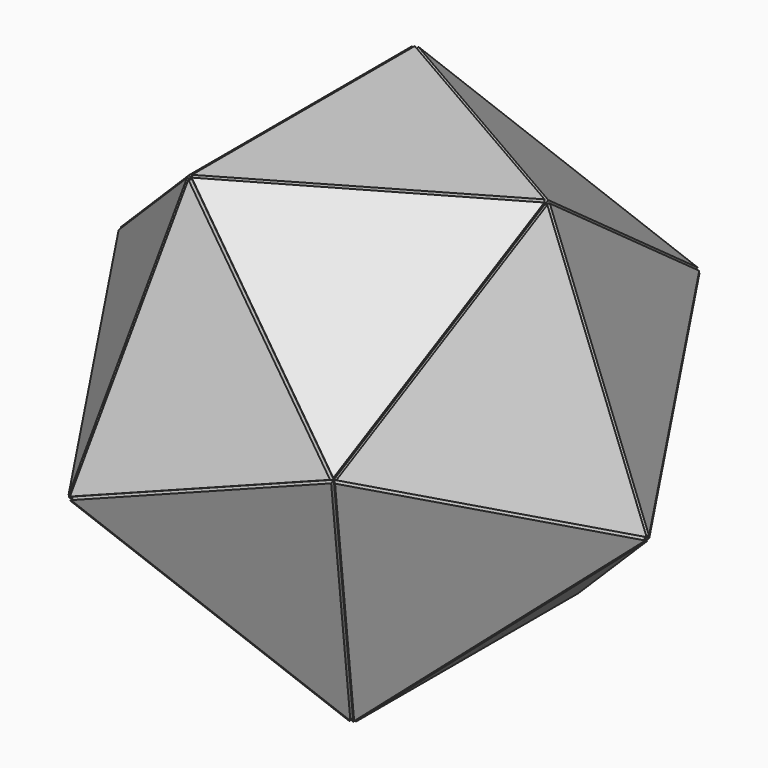
from build123d import *

# Parameters (mm, degrees)
F1_DEPTH  = 3
F4_ANGLE  = 138.2
F7_ANGLE  = 138.2
F10_ANGLE = 138.2
F14_ANGLE = -138.2
F16_ANGLE = 138.2
F19_ANGLE = 138.2
F21_COUNT = 3
F22_COUNT = 3
F23_COUNT = 3
F26_ANGLE = -138.2
F27_COUNT = 3
F30_ANGLE = 138.2
F31_COUNT = 3
F34_ANGLE = -138.2
F35_COUNT = 3
F39_ANGLE = -138.2


with BuildPart() as f1:
    # F0 (on Top) → F1 (new body)
    with BuildSketch(Plane.XY):
        Polygon((28.8675134595, -50), (28.8675134595, 50), (-57.735026919, 0), align=None)
    extrude(amount=F1_DEPTH)


with BuildPart() as f2_1:
    # F2: copy of F1
    add(f1.part)


with BuildPart() as f2_1_1:
    # F4: moved
    add(f2_1.part.rotate(Axis((-14.4337567297, -25, 1.5), (0.8660254038, -0.5, 0)), F4_ANGLE))


with BuildPart() as f5_1:
    # F5: copy of F1
    add(f1.part)


with BuildPart() as f5_1_1:
    # F7: moved
    add(f5_1.part.rotate(Axis((28.8675134595, 0, 1.5), (0, 1, 0)), F7_ANGLE))


with BuildPart() as f8_1:
    # F8: copy of F1
    add(f1.part)


with BuildPart() as f8_1_1:
    # F10: moved
    add(f8_1.part.rotate(Axis((-14.4337567297, 25, 1.5), (-0.8660254038, -0.5, 0)), F10_ANGLE))


with BuildPart() as f13_1:
    # F13: copy of F2_1
    add(f2_1_1.part)


with BuildPart() as f13_1_1:
    # F14: moved
    add(f13_1.part.rotate(Axis((-52.2244206653, -40.4553499881, 30.3617025842), (-0.1102121251, 0.8091069998, -0.5772340517)), F14_ANGLE))


with BuildPart() as f15_1:
    # F15: copy of F8_1
    add(f8_1_1.part)


with BuildPart() as f15_1_1:
    # F16: moved
    add(f15_1.part.rotate(Axis((-52.2244206653, 40.4553499881, 30.3617025842), (-0.1102121251, -0.8091069998, -0.5772340517)), F16_ANGLE))


with BuildPart() as f18_1:
    # F18: copy of F8_1
    add(f8_1_1.part)


with BuildPart() as f8_1_2:
    # F19: moved
    add(f8_1_1.part.rotate(Axis((-8.9231504761, 65.4553499881, 30.3617025842), (-0.7558132787, 0.3091069998, 0.5772340517)), F19_ANGLE))


with BuildPart() as f21_1:
    # F21: instance of F18_1
    add(f18_1.part.rotate(Axis((0, 0, 83.6571007967), (0, 0, 1)), 1 * 360 / F21_COUNT))


with BuildPart() as f21_2:
    # F21: instance of F18_1
    add(f18_1.part.rotate(Axis((0, 0, 83.6571007967), (0, 0, 1)), 2 * 360 / F21_COUNT))


with BuildPart() as f22_1:
    # F22: instance of F15_1
    add(f15_1_1.part.rotate(Axis((0, 0, 83.6571007967), (0, 0, 1)), 1 * 360 / F22_COUNT))


with BuildPart() as f22_2:
    # F22: instance of F15_1
    add(f15_1_1.part.rotate(Axis((0, 0, 83.6571007967), (0, 0, 1)), 2 * 360 / F22_COUNT))


with BuildPart() as f23_1:
    # F23: instance of F8_1
    add(f8_1_2.part.rotate(Axis((0, 0, 83.6571007967), (0, 0, 1)), 1 * 360 / F23_COUNT))


with BuildPart() as f23_2:
    # F23: instance of F8_1
    add(f8_1_2.part.rotate(Axis((0, 0, 83.6571007967), (0, 0, 1)), 2 * 360 / F23_COUNT))


with BuildPart() as f25_1:
    # F25: copy of F15_1
    add(f15_1_1.part)


with BuildPart() as f25_1_1:
    # F26: moved
    add(f25_1.part.rotate(Axis((-70.0765319079, 40.4654137064, 77.066113756), (0.4672543499, 0.8089057254, -0.3568541718)), F26_ANGLE))


with BuildPart() as f27_1:
    # F27: instance of F25_1
    add(f25_1_1.part.rotate(Axis((0, 0, 83.6571007967), (0, 0, 1)), 1 * 360 / F27_COUNT))


with BuildPart() as f27_2:
    # F27: instance of F25_1
    add(f25_1_1.part.rotate(Axis((0, 0, 83.6571007967), (0, 0, 1)), 2 * 360 / F27_COUNT))


with BuildPart() as f28_1:
    # F28: copy of F13_1
    add(f13_1_1.part)


with BuildPart() as f28_1_1:
    # F30: moved
    add(f28_1.part.rotate(Axis((-70.0765319079, -40.4654137064, 77.066113756), (0.4672543499, -0.8089057254, -0.3568541718)), F30_ANGLE))


with BuildPart() as f31_1:
    # F31: instance of F28_1
    add(f28_1_1.part.rotate(Axis((0, 0, 83.6571007967), (0, 0, 1)), 1 * 360 / F31_COUNT))


with BuildPart() as f31_2:
    # F31: instance of F28_1
    add(f28_1_1.part.rotate(Axis((0, 0, 83.6571007967), (0, 0, 1)), 2 * 360 / F31_COUNT))


with BuildPart() as f32_1:
    # F32: copy of F28_1
    add(f28_1_1.part)


with BuildPart() as f28_1_2:
    # F34: moved
    add(f28_1_1.part.rotate(Axis((-61.1744043061, -25.0263489681, 123.7821431695), (-0.645296902, 0.5001244306, -0.5774664165)), F34_ANGLE))


with BuildPart() as f35_1:
    # F35: instance of F28_1
    add(f28_1_2.part.rotate(Axis((0, 0, 83.6571007967), (0, 0, 1)), 1 * 360 / F35_COUNT))


with BuildPart() as f35_2:
    # F35: instance of F28_1
    add(f28_1_2.part.rotate(Axis((0, 0, 83.6571007967), (0, 0, 1)), 2 * 360 / F35_COUNT))


with BuildPart() as f36_1:
    # F36: copy of F28_1
    add(f28_1_2.part)


with BuildPart() as f37_1:
    # F37: copy of F28_1
    add(f28_1_2.part)


with BuildPart() as f28_1_3:
    # F39: moved
    add(f28_1_2.part.rotate(Axis((-28.9167455123, -0.0328565628, 152.6742646909), (-0.0001437269, 0.999999919, 0.000376016)), F39_ANGLE))


with BuildPart() as f37_1_1:
    # F39: moved
    add(f37_1.part.rotate(Axis((-28.9167455123, -0.0328565628, 152.6742646909), (-0.0001437269, 0.999999919, 0.000376016)), F39_ANGLE))


solid = Compound([f1.part, f2_1_1.part, f5_1_1.part, f13_1_1.part, f15_1_1.part, f18_1.part, f8_1_2.part, f21_1.part, f21_2.part, f22_1.part, f22_2.part, f23_1.part, f23_2.part, f25_1_1.part, f27_1.part, f27_2.part, f31_1.part, f31_2.part, f32_1.part, f35_1.part, f35_2.part, f36_1.part, f28_1_3.part, f37_1_1.part])
